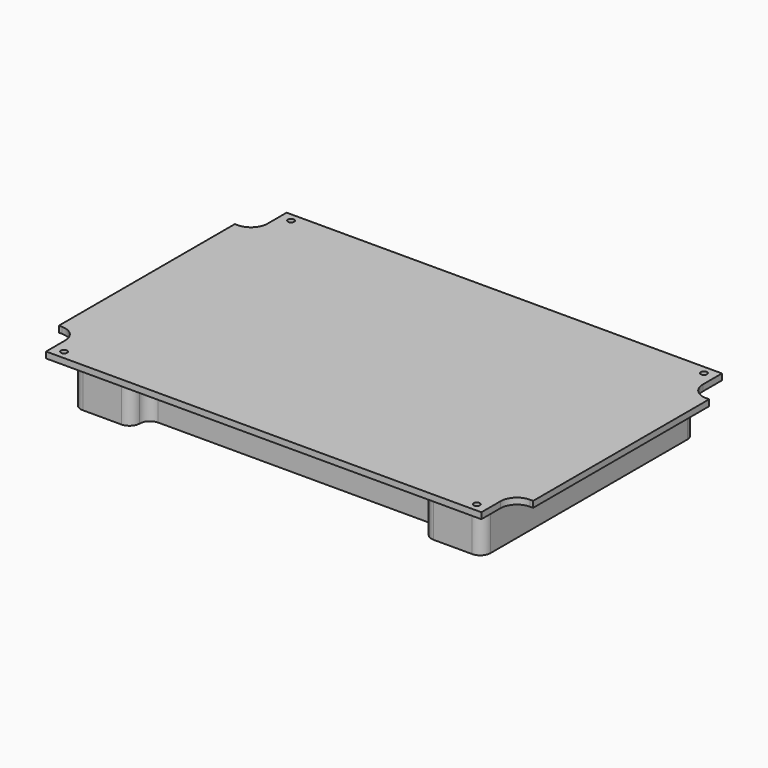
from build123d import *

# Parameters (mm, degrees)
F0_R     = 2.5
F0_W     = 27
F0_H     = 50
F0_R_2   = 1.5
F1_DEPTH = 3
F3_R     = 2.5
F3_W     = 21
F3_H     = 43.1
F3_W_2   = 85.2
F3_H_2   = 56.4
F3_W_3   = 53
F3_H_3   = 38.1
F4_DEPTH = 25


with BuildPart() as f1:
    # F0 (on Top) → F1 (new body)
    with BuildSketch(Plane.XY):
        with BuildLine():
            Line((106.21, 73.37), (-106.21, 73.37))
            Line((-106.21, 73.37), (-106.21, 61.705))
            ThreePointArc((-106.21, 61.705), (-108.560468, 56.030468), (-114.235, 53.68))
            Line((-114.235, 53.68), (-115.735, 53.68))
            Line((-115.735, 53.68), (-115.735, -53.68))
            Line((-115.735, -53.68), (-114.235, -53.68))
            ThreePointArc((-114.235, -53.68), (-108.560468, -56.030468), (-106.21, -61.705))
            Line((-106.21, -61.705), (-106.21, -73.37))
            Line((-106.21, -73.37), (106.21, -73.37))
            Line((106.21, -73.37), (106.21, -61.705))
            ThreePointArc((106.21, -61.705), (108.560468, -56.030468), (114.235, -53.68))
            Line((114.235, -53.68), (115.735, -53.68))
            Line((115.735, -53.68), (115.735, 53.68))
            Line((115.735, 53.68), (114.235, 53.68))
            ThreePointArc((114.235, 53.68), (108.560468, 56.030468), (106.21, 61.705))
            Line((106.21, 61.705), (106.21, 73.37))
        make_face()
        with Locations((-100.75, -69.25)):
            Circle(F0_R, mode=Mode.SUBTRACT)
        with Locations((-93.520904, -0.239639)):
            Rectangle(F0_W, F0_H, mode=Mode.SUBTRACT)
        with Locations((100.75, -69.25)):
            Circle(F0_R, mode=Mode.SUBTRACT)
        with Locations((94.036416, -0.305581)):
            Rectangle(F0_W, F0_H, mode=Mode.SUBTRACT)
        with Locations((-100.75, 69.25)):
            Circle(F0_R, mode=Mode.SUBTRACT)
        with Locations((100.75, 69.25)):
            Circle(F0_R, mode=Mode.SUBTRACT)
        with Locations((-100.75, 69.25)):
            Circle(F0_R)
        with Locations((-100.75, 69.25)):
            Circle(F0_R_2, mode=Mode.SUBTRACT)
        with Locations((100.75, 69.25)):
            Circle(F0_R)
        with Locations((100.75, 69.25)):
            Circle(F0_R_2, mode=Mode.SUBTRACT)
        with Locations((-100.75, -69.25)):
            Circle(F0_R)
        with Locations((-100.75, -69.25)):
            Circle(F0_R_2, mode=Mode.SUBTRACT)
        with Locations((100.75, -69.25)):
            Circle(F0_R)
        with Locations((100.75, -69.25)):
            Circle(F0_R_2, mode=Mode.SUBTRACT)
        with Locations((94.036416, -0.305581)):
            Rectangle(F0_W, F0_H)
        with Locations((-93.520904, -0.239639)):
            Rectangle(F0_W, F0_H)
    extrude(amount=-F1_DEPTH)

    # F3 (on face) → F4 (join)
    with BuildSketch(Plane.XY):
        with BuildLine():
            ThreePointArc((71.2, -60), (72.664466, -63.535534), (76.2, -65))
            Line((76.2, -65), (95, -65))
            ThreePointArc((95, -65), (98.535534, -63.535534), (100, -60))
            Line((100, -60), (100, 0))
            Line((100, 0), (100, 60))
            ThreePointArc((100, 60), (98.535534, 63.535534), (95, 65))
            Line((95, 65), (0, 65))
            Line((0, 65), (-95, 65))
            ThreePointArc((-95, 65), (-98.535534, 63.535534), (-100, 60))
            Line((-100, 60), (-100, 0))
            Line((-100, 0), (-100, -60))
            ThreePointArc((-100, -60), (-98.535534, -63.535534), (-95, -65))
            Line((-95, -65), (-76.2, -65))
            ThreePointArc((-76.2, -65), (-72.664466, -63.535534), (-71.2, -60))
            ThreePointArc((-71.2, -60), (-69.735534, -56.464466), (-66.2, -55))
            Line((-66.2, -55), (66.2, -55))
            ThreePointArc((66.2, -55), (69.735534, -56.464466), (71.2, -60))
        make_face()
        with Locations((-92, -57)):
            Circle(F3_R, mode=Mode.SUBTRACT)
        with Locations((-73.475645, -24.258908)):
            Rectangle(F3_W, F3_H, mode=Mode.SUBTRACT)
        with Locations((-48.475645, -24.258908)):
            Rectangle(F3_W, F3_H, mode=Mode.SUBTRACT)
        with Locations((-23.475645, -24.258908)):
            Rectangle(F3_W, F3_H, mode=Mode.SUBTRACT)
        with Locations((92, -57)):
            Circle(F3_R, mode=Mode.SUBTRACT)
        with Locations((45.790785, -20.490367)):
            Rectangle(F3_W_2, F3_H_2, mode=Mode.SUBTRACT)
        with Locations((-92, 57)):
            Circle(F3_R, mode=Mode.SUBTRACT)
        with Locations((-36.003176, 33.603213)):
            Rectangle(F3_W_3, F3_H_3, mode=Mode.SUBTRACT)
        with Locations((92, 57)):
            Circle(F3_R, mode=Mode.SUBTRACT)
    extrude(amount=-F4_DEPTH)


solid = f1.part
